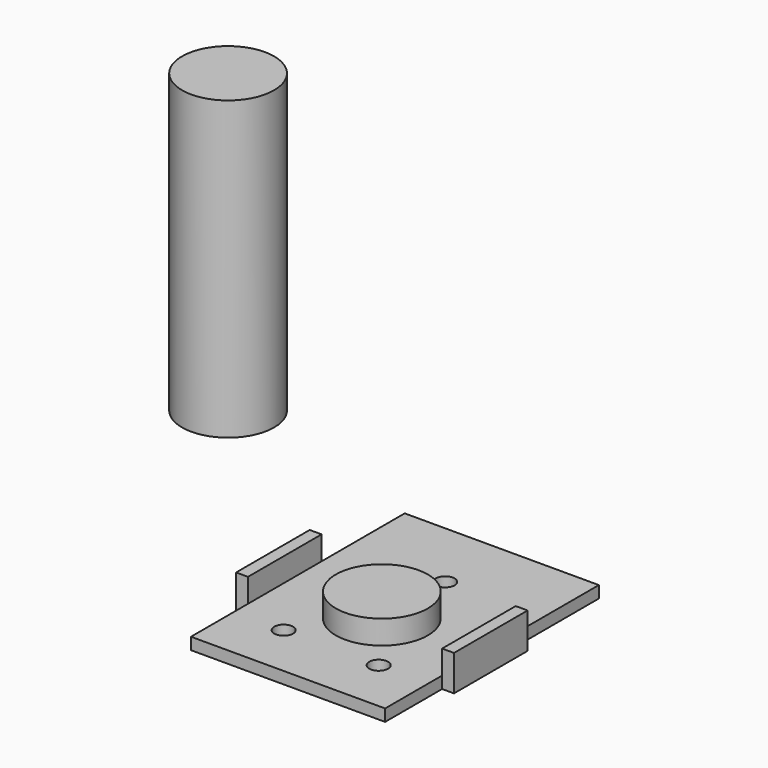
from build123d import *

# Parameters (mm, degrees)
F0_R     = 7.75
F1_DEPTH = 50
F2_R     = 1.5875
F2_R_2   = 7.75
F2_W     = 2
F2_H     = 15.5
F3_DEPTH = 2
F4_DEPTH = 6


with BuildPart() as f1:
    # F0 (on Top) → F1 (new body)
    with BuildSketch(Plane.XY):
        Circle(F0_R)
    extrude(amount=F1_DEPTH)


with BuildPart() as f3:
    # F2 (on Top) → F3 (new body)
    with BuildSketch(Plane.XY):
        Polygon((71.540075, -11.362871), (38.840075, -11.362871), (38.840075, -28.862871), (38.840075, -44.362871), (38.840075, -56.362871), (71.540075, -56.362871), (71.540075, -44.362871), (71.540075, -28.862871), align=None)
        with Locations((47.190075, -47.284745)):
            Circle(F2_R, mode=Mode.SUBTRACT)
        with Locations((63.190075, -47.284745)):
            Circle(F2_R, mode=Mode.SUBTRACT)
        with Locations((55.190075, -36.612871)):
            Circle(F2_R_2, mode=Mode.SUBTRACT)
        with Locations((55.190075, -23.275371)):
            Circle(F2_R, mode=Mode.SUBTRACT)
        with Locations((37.840075, -36.612871)):
            Rectangle(F2_W, F2_H)
        with Locations((72.540075, -36.612871)):
            Rectangle(F2_W, F2_H)
    extrude(amount=F3_DEPTH)

    # F2 (on Top) → F4 (join)
    with BuildSketch(Plane.XY):
        with Locations((55.190075, -36.612871)):
            Circle(F2_R_2)
        with Locations((37.840075, -36.612871)):
            Rectangle(F2_W, F2_H)
        with Locations((72.540075, -36.612871)):
            Rectangle(F2_W, F2_H)
    extrude(amount=F4_DEPTH)


solid = Compound([f1.part, f3.part])
